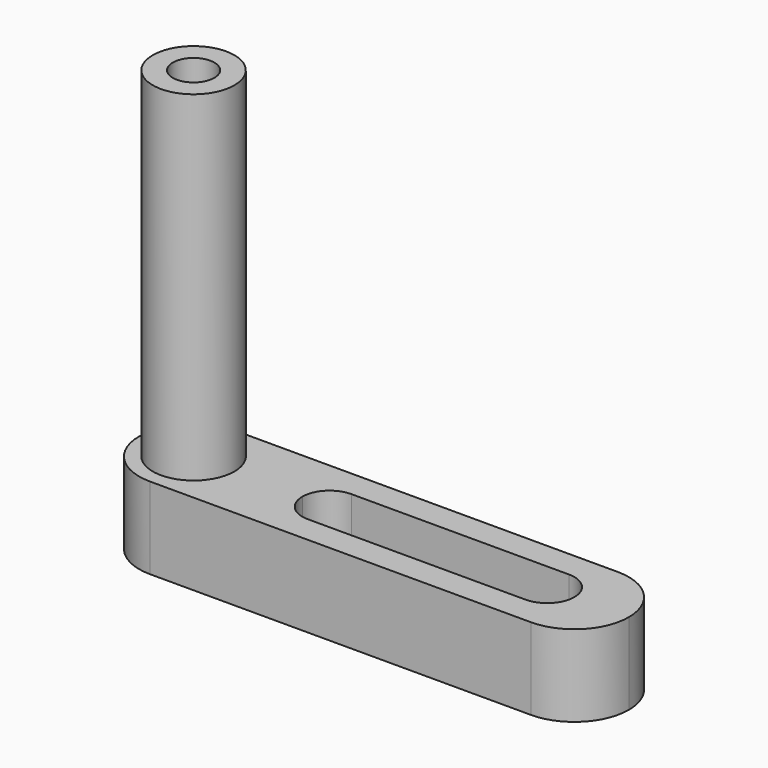
from build123d import *

# Parameters (mm, degrees)
F1_DEPTH = 6
F2_R     = 3
F3_DEPTH = 25
F4_R     = 1.525
F5_DEPTH = 8


with BuildPart() as f1:
    # F0 (on Top) → F1 (new body)
    with BuildSketch(Plane.XY):
        with BuildLine():
            Line((-28.736944, 4), (-56.736944, 4))
            ThreePointArc((-56.736944, 4), (-59.565371, 2.828427), (-60.736944, 0))
            ThreePointArc((-60.736944, 0), (-59.565371, -2.828427), (-56.736944, -4))
            Line((-56.736944, -4), (-28.736944, -4))
            ThreePointArc((-28.736944, -4), (-25.908517, -2.828427), (-24.736944, 0))
            ThreePointArc((-24.736944, 0), (-25.908517, 2.828427), (-28.736944, 4))
        make_face()
        with BuildLine():
            ThreePointArc((-48.736944, 0), (-48.151158, 1.414214), (-46.736944, 2))
            Line((-46.736944, 2), (-30.736944, 2))
            ThreePointArc((-30.736944, 2), (-29.32273, 1.414214), (-28.736944, 0))
            ThreePointArc((-28.736944, 0), (-29.32273, -1.414214), (-30.736944, -2))
            Line((-30.736944, -2), (-46.736944, -2))
            ThreePointArc((-46.736944, -2), (-48.151158, -1.414214), (-48.736944, 0))
        make_face(mode=Mode.SUBTRACT)
    extrude(amount=F1_DEPTH)

    # F2 (on face) → F3 (join)
    with BuildSketch(Plane.XY.offset(6)):
        with Locations((-56.736944, 0)):
            Circle(F2_R)
    extrude(amount=F3_DEPTH)

    # F4 (on face) → F5 (cut)
    with BuildSketch(Plane.XY.offset(31)):
        with Locations((-56.736944, 0)):
            Circle(F4_R)
    extrude(amount=-F5_DEPTH, mode=Mode.SUBTRACT)


solid = f1.part
